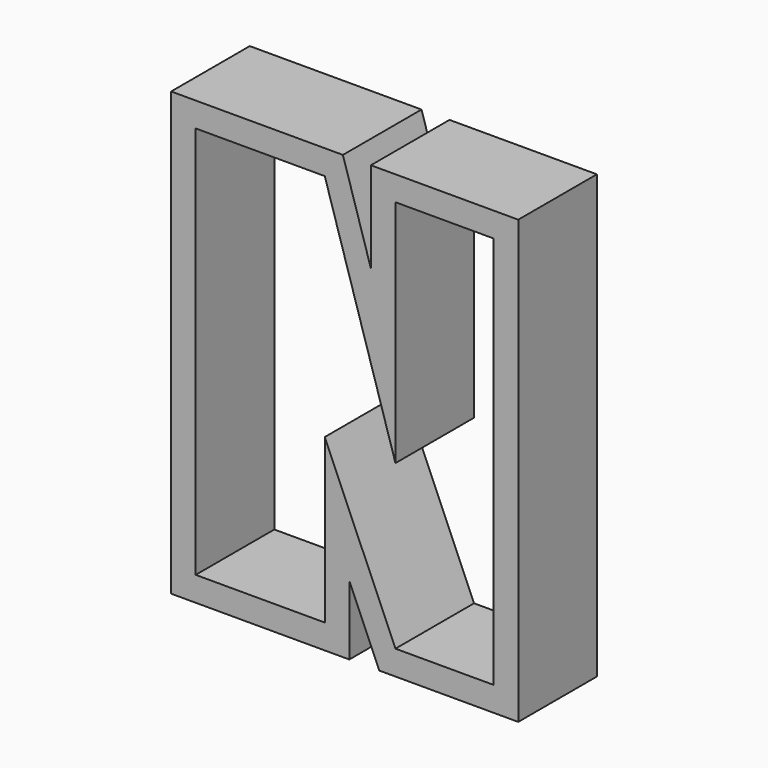
from build123d import *

# Parameters (mm, degrees)
F1_DEPTH = 12.7


with BuildPart() as f1:
    # F0 (on Front) → F1 (new body)
    with BuildSketch(Plane.XZ):
        Polygon((-34.601895, 47.571581), (-56.804623, 47.571581), (-56.804623, -9.578419), (-33.77184, -9.578419), (-33.77184, -0.624114), (-29.897187, -9.578419), (-11.936555, -9.578419), (-11.936555, 47.571581), (-30.986555, 47.571581), (-30.986555, 35.822231), align=None)
        Polygon((-36.94684, -6.403419), (-53.629623, -6.403419), (-53.629623, 44.396581), (-36.94684, 44.396581), (-27.811555, 14.708183), (-27.811555, 44.396581), (-15.111555, 44.396581), (-15.111555, -6.403419), (-27.811555, -6.403419), (-36.94684, 14.708183), align=None, mode=Mode.SUBTRACT)
    extrude(amount=F1_DEPTH)


solid = f1.part
